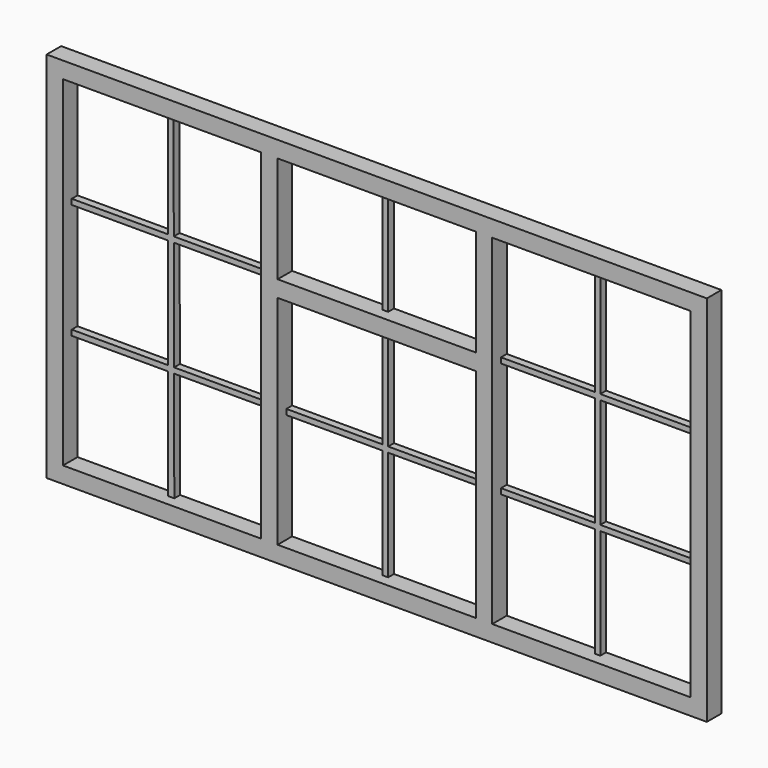
from build123d import *

# Parameters (mm, degrees)
F0_W     = 1815
F0_H     = 1025
F0_W_2   = 545
F0_H_2   = 597.5
F0_H_3   = 935
F0_H_4   = 292.5
F1_DEPTH = 50
F2_W     = 15
F2_H     = 292.5
F3_DEPTH = 20


with BuildPart() as f1:
    # F0 (on Front) → F1 (new body)
    with BuildSketch(Plane.XZ):
        with Locations((907.5, 512.5)):
            Rectangle(F0_W, F0_H)
        with Locations((907.5, 343.75)):
            Rectangle(F0_W_2, F0_H_2, mode=Mode.SUBTRACT)
        with Locations((317.5, 512.5)):
            Rectangle(F0_W_2, F0_H_3, mode=Mode.SUBTRACT)
        with Locations((907.5, 833.75)):
            Rectangle(F0_W_2, F0_H_4, mode=Mode.SUBTRACT)
        with Locations((1497.5, 512.5)):
            Rectangle(F0_W_2, F0_H_3, mode=Mode.SUBTRACT)
    extrude(amount=F1_DEPTH)

    # F2 (on Front) → F3 (join)
    with BuildSketch(Plane.XZ):
        Polygon((325, 980), (310, 980), (310, 678.333333), (45, 678.333333), (45, 663.333333), (310, 663.333333), (310, 361.666667), (45, 361.666667), (45, 346.666667), (310, 346.666667), (310, 45), (327.010195, 45), (326.36163, 346.666667), (590, 346.666667), (590, 361.666667), (326.329381, 361.666667), (325.680815, 663.333333), (590, 663.333333), (590, 678.333333), (325.648566, 678.333333), align=None)
        Polygon((1498.095772, 980), (1483.095772, 980), (1483.095772, 678.333333), (1225, 678.333333), (1225, 663.333333), (1483.095772, 663.333333), (1483.095772, 361.666667), (1225, 361.666667), (1225, 346.666667), (1483.095772, 346.666667), (1483.095772, 45), (1498.095772, 45), (1498.095772, 346.666667), (1770, 346.666667), (1770, 361.666667), (1498.095772, 361.666667), (1498.095772, 663.333333), (1770, 663.333333), (1770, 678.333333), (1498.095772, 678.333333), align=None)
        with Locations((907.5, 833.75)):
            Rectangle(F2_W, F2_H)
        Polygon((915, 642.5), (900, 642.5), (900, 361.666667), (635, 361.666667), (635, 346.666667), (900, 346.666667), (900, 45), (915, 45), (915, 346.666667), (1180, 346.666667), (1180, 361.666667), (915, 361.666667), align=None)
    extrude(amount=F3_DEPTH)


solid = f1.part
